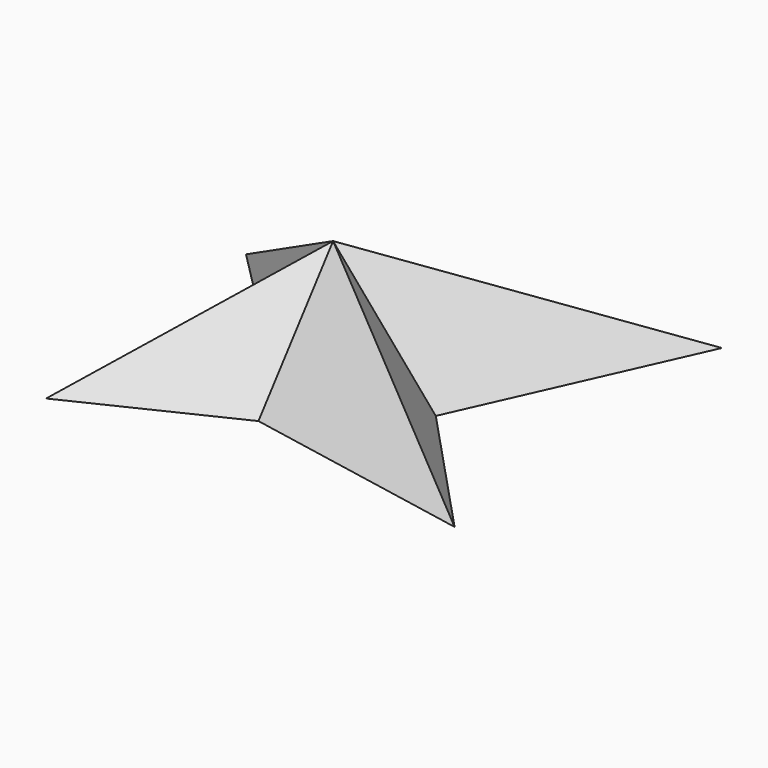
from build123d import *


with BuildPart() as f3:
    # F0 (on Top) → F3 section 0
    with BuildSketch(Plane.XY, mode=Mode.PRIVATE) as f3_s0:
        Polygon((43.2816, 48.310801), (0, 23.9268), (-38.7096, 25.4508), (-13.4112, 0), (-32.308798, -35.204399), (0, -19.659601), (48.767999, -28.956), (21.6408, 0), align=None)
    loft([Vertex(0, 0, 25.4), f3_s0.sketch])


solid = f3.part
